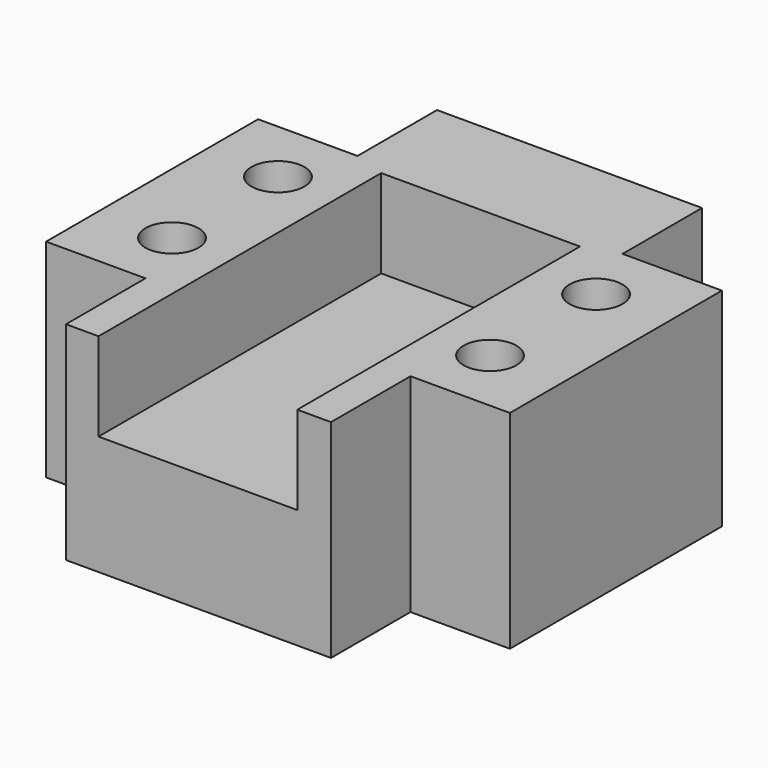
from build123d import *

# Parameters (mm, degrees)
F0_R          = 6
F1_DEPTH      = 35
F1_DEPTH_BACK = 12
F2_W          = 45
F2_H          = 20
F3_DEPTH      = 80


with BuildPart() as f1:
    # F0 (on Top) → F1 (new body, two sides)
    with BuildSketch(Plane.XY) as f1_sk:
        Polygon((30, 30), (30, 52.5), (-30, 52.5), (-30, 30), (-52.5, 30), (-52.5, -30), (-30, -30), (-30, -52.5), (30, -52.5), (30, -30), (52.5, -30), (52.5, 30), align=None)
        with Locations((-36, -15)):
            Circle(F0_R, mode=Mode.SUBTRACT)
        with Locations((36, -15)):
            Circle(F0_R, mode=Mode.SUBTRACT)
        with Locations((-36, 15)):
            Circle(F0_R, mode=Mode.SUBTRACT)
        with Locations((36, 15)):
            Circle(F0_R, mode=Mode.SUBTRACT)
    extrude(amount=F1_DEPTH)
    extrude(f1_sk.sketch, amount=-F1_DEPTH_BACK)

    # F2 (on face) → F3 (cut)
    with BuildSketch(Plane.XZ.offset(52.5)):
        with Locations((-0.129311, 25)):
            Rectangle(F2_W, F2_H)
    extrude(amount=-F3_DEPTH, mode=Mode.SUBTRACT)


solid = f1.part
